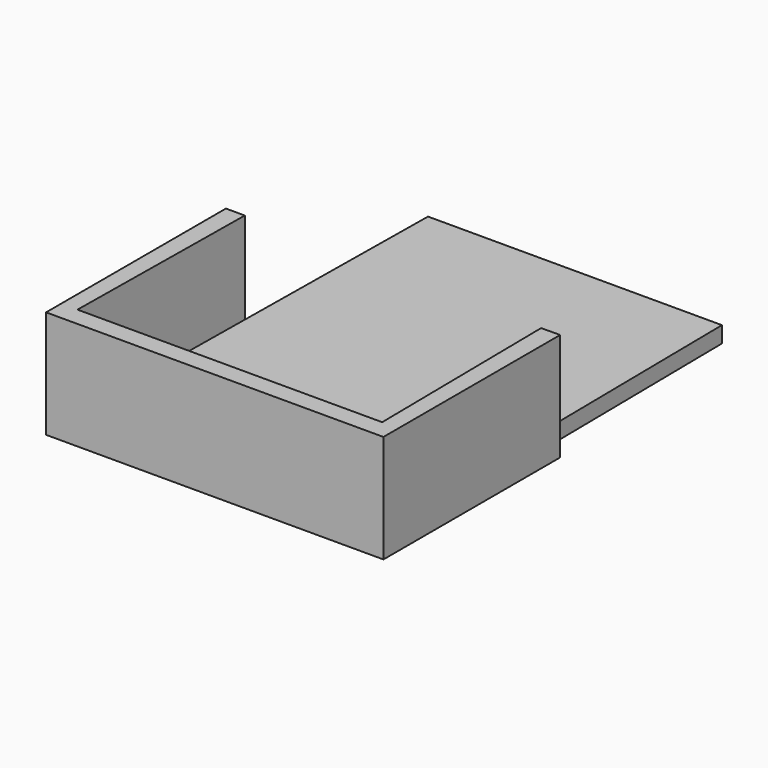
from build123d import *

# Parameters (mm, degrees)
F1_DEPTH = 20
F2_DEPTH = 3


with BuildPart() as f1:
    # F0 (on Top) → F1 (new body)
    with BuildSketch(Plane.XY):
        Polygon((-28.000006, -0.195754), (-27.522713, 37.987705), (-31.022713, 37.987705), (-31.022713, -3.695754), (31.531953, -3.695754), (31.531953, 37.26936), (28.032226, 37.225613), (28.499994, -0.195754), align=None)
    extrude(amount=F1_DEPTH)

    # F0 (on Top) → F2 (join)
    with BuildSketch(Plane.XY):
        Polygon((27.499994, 79.804246), (-27.000006, 79.804246), (-27.522713, 37.987705), (-28.000006, -0.195754), (28.499994, -0.195754), (28.032226, 37.225613), align=None)
    extrude(amount=F2_DEPTH)


solid = f1.part
